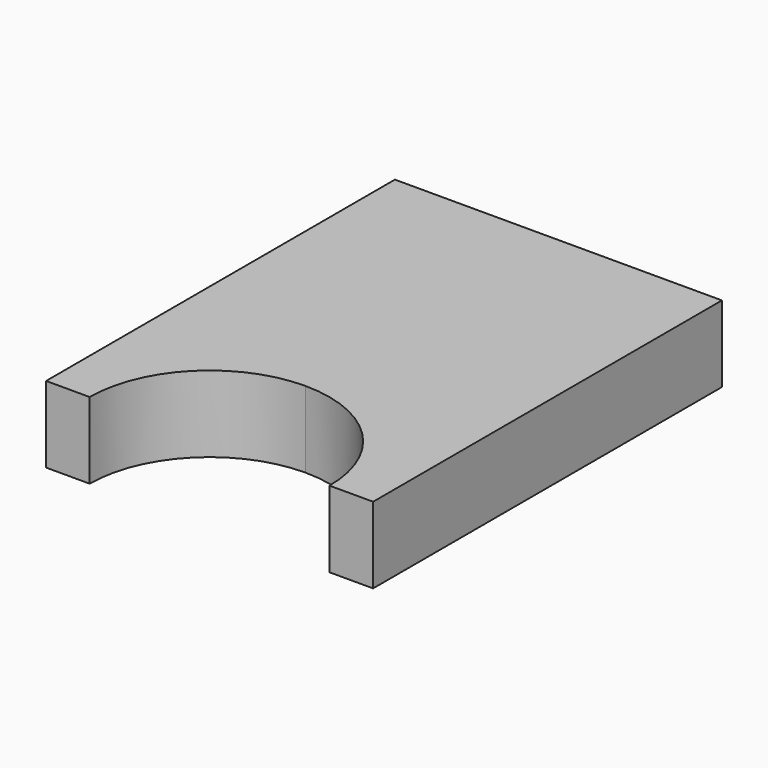
from build123d import *

# Parameters (mm, degrees)
F1_DEPTH = 7


with BuildPart() as f1:
    # F0 (on Top) → F1 (new body)
    with BuildSketch(Plane.XY):
        with BuildLine():
            ThreePointArc((0, 11), (7.778175, 7.778175), (11, 0))
            Line((11, 0), (15, 0))
            Line((15, 0), (15, 40))
            Line((15, 40), (7.318549, 40))
            Line((7.318549, 40), (0, 40))
            Line((0, 40), (0, 11))
        make_face()
        with BuildLine():
            ThreePointArc((-11, 0), (-7.778175, 7.778175), (0, 11))
            Line((0, 11), (0, 40))
            Line((0, 40), (-15, 40))
            Line((-15, 40), (-15, 0))
            Line((-15, 0), (-11, 0))
        make_face()
    extrude(amount=F1_DEPTH)


solid = f1.part
